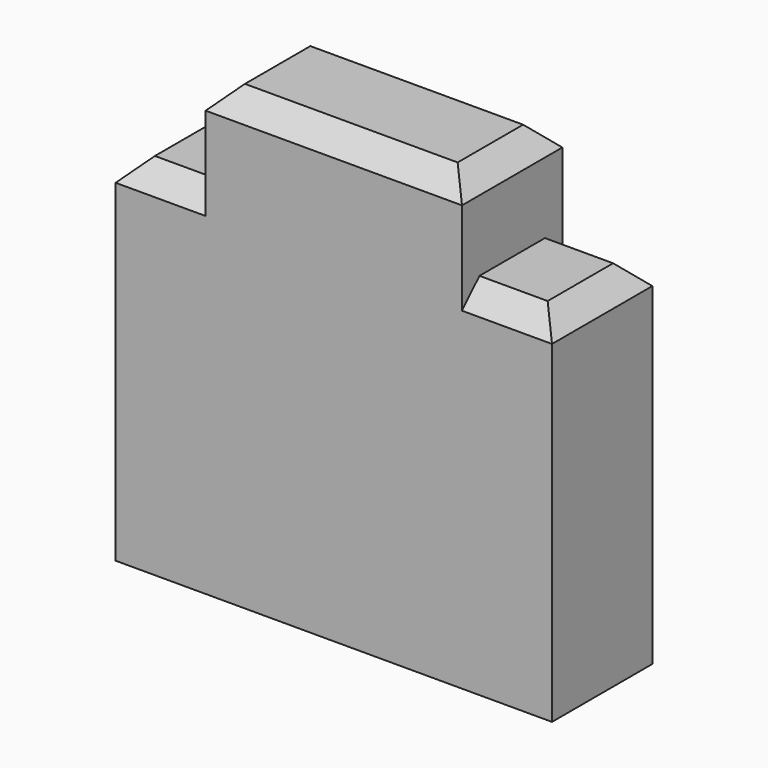
from build123d import *

# Parameters (mm, degrees)
SKETCH008_W     = 4
SKETCH008_H     = 1.15
PAD005_DEPTH    = 4.1
SKETCH009_W     = 0.825
SKETCH009_H     = 0.85
POCKET002_DEPTH = 5
CHAMFER005_SIZE = 0.2


with BuildPart() as part:
    # Sketch008 → Pad005 (new body)
    with BuildSketch(Plane.XY):
        Rectangle(SKETCH008_W, SKETCH008_H)
    extrude(amount=PAD005_DEPTH)

    # Sketch009 (on Face1 of Pad005) → Pocket002 (cut)
    with BuildSketch(Plane(origin=(0, 0.575, 0), x_dir=(-1, 0, 0), z_dir=(0, 1, 0))):
        with Locations((-1.5875, 3.675)):
            Rectangle(SKETCH009_W, SKETCH009_H)
        with Locations((1.5875, 3.675)):
            Rectangle(SKETCH009_W, SKETCH009_H)
    extrude(amount=-POCKET002_DEPTH, mode=Mode.SUBTRACT)

    # Chamfer005
    chamfer005_edges = [part.edges().sort_by_distance(p)[0] for p in [
        (0, 0.575, 4.1),
        (0, -0.575, 4.1),
        (1.5875, 0.575, 3.25),
        (-1.5875, 0.575, 3.25),
        (-1.5875, -0.575, 3.25),
        (1.5875, -0.575, 3.25),
        (2, 0, 3.25),
        (-2, 0, 3.25),
        (1.175, 0, 4.1),
        (-1.175, 0, 4.1),
    ]]
    chamfer(chamfer005_edges, length=CHAMFER005_SIZE)


with BuildPart() as part_1:
    # Body035 placement: moved
    add(part.part.moved(Location((0, 6, 0))))


solid = part_1.part
